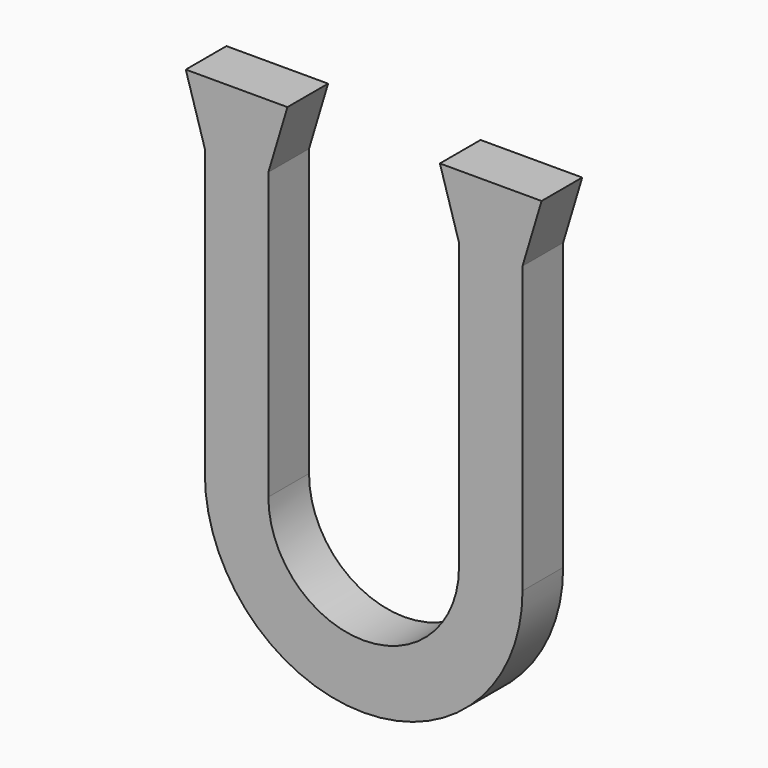
from build123d import *

# Parameters (mm, degrees)
F1_DEPTH = 5.08


with BuildPart() as f1:
    # F0 (on Front) → F1 (new body)
    with BuildSketch(Plane.XZ):
        with BuildLine():
            Line((-15.875, 28.575), (-15.875, 0))
            ThreePointArc((-15.875, 0), (0, -15.875), (15.875, 0))
            Line((15.875, 0), (15.875, 28.575))
            Line((15.875, 28.575), (17.78, 34.925))
            Line((17.78, 34.925), (15.875, 34.925))
            Line((15.875, 34.925), (9.525, 34.925))
            Line((9.525, 34.925), (7.62, 34.925))
            Line((7.62, 34.925), (9.525, 28.575))
            Line((9.525, 28.575), (9.525, 0))
            ThreePointArc((9.525, 0), (0, -9.525), (-9.525, 0))
            Line((-9.525, 0), (-9.525, 28.575))
            Line((-9.525, 28.575), (-7.62, 34.925))
            Line((-7.62, 34.925), (-9.525, 34.925))
            Line((-9.525, 34.925), (-15.875, 34.925))
            Line((-15.875, 34.925), (-17.78, 34.925))
            Line((-17.78, 34.925), (-15.875, 28.575))
        make_face()
    extrude(amount=F1_DEPTH)


solid = f1.part
